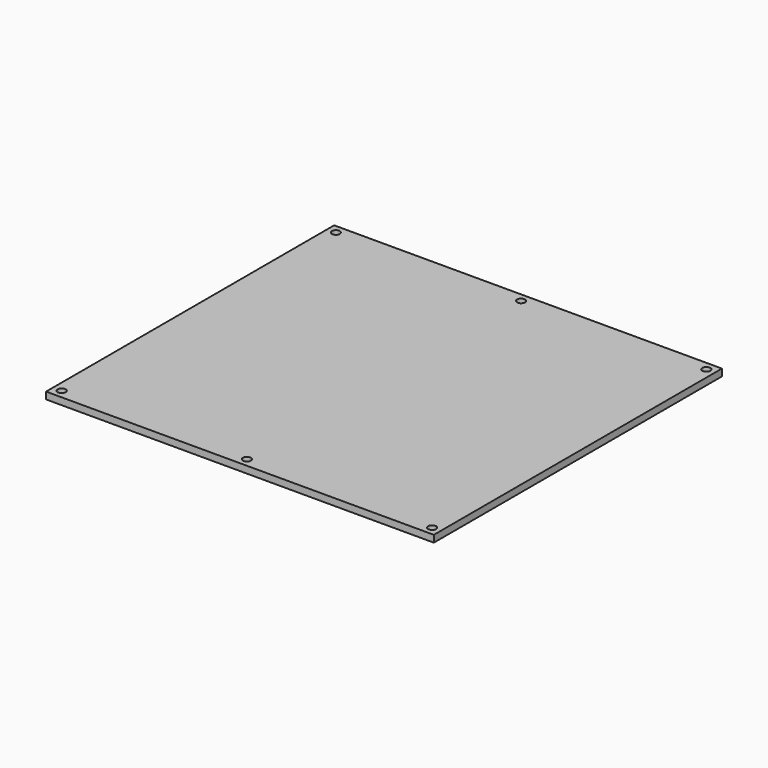
from build123d import *

# Parameters (mm, degrees)
F0_W     = 177.8
F0_H     = 165.1
F0_R     = 1.8288
F1_DEPTH = 3.175


with BuildPart() as f1:
    # F0 (on Top) → F1 (new body)
    with BuildSketch(Plane.XY):
        Rectangle(F0_W, F0_H)
        with Locations((-84.93125, -78.58125)):
            Circle(F0_R, mode=Mode.SUBTRACT)
        with Locations((0, -78.58125)):
            Circle(F0_R, mode=Mode.SUBTRACT)
        with Locations((84.93125, -78.58125)):
            Circle(F0_R, mode=Mode.SUBTRACT)
        with Locations((-84.93125, 78.58125)):
            Circle(F0_R, mode=Mode.SUBTRACT)
        with Locations((0, 78.58125)):
            Circle(F0_R, mode=Mode.SUBTRACT)
        with Locations((84.93125, 78.58125)):
            Circle(F0_R, mode=Mode.SUBTRACT)
    extrude(amount=F1_DEPTH)


solid = f1.part
